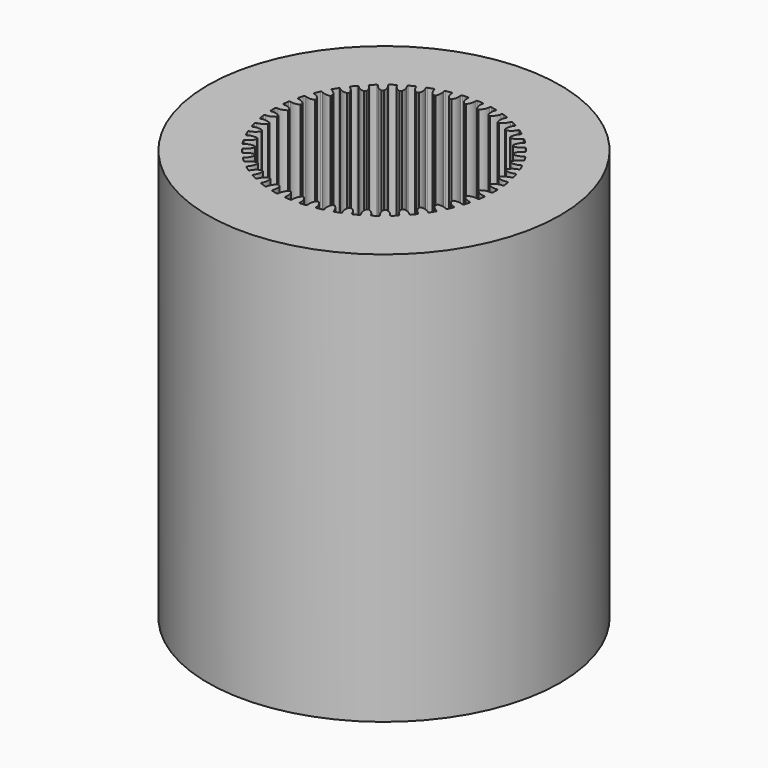
from build123d import *

# Parameters (mm, degrees)
F0_R     = 22.4917
F1_DEPTH = 52.5272


with BuildPart() as f1:
    # F0 (on Top) → F1 (new body)
    with BuildSketch(Plane.XY):
        Circle(F0_R)
        with BuildLine():
            ThreePointArc((-1.880988, 12.752524), (-1.755256, 12.770437), (-1.629354, 12.787111))
            ThreePointArc((-1.629354, 12.787111), (-1.400845, 13.35114), (-1.411246, 13.959611))
            ThreePointArc((-1.411246, 13.959611), (-1.38984, 14.061959), (-1.298894, 14.113556))
            ThreePointArc((-1.298894, 14.113556), (-1.133132, 14.127831), (-0.967213, 14.140159))
            Line((-0.967213, 14.140159), (-0.635, 14.158968))
            ThreePointArc((-0.635, 14.158968), (-0.537875, 14.120235), (-0.502732, 14.021755))
            ThreePointArc((-0.502732, 14.021755), (-0.430183, 13.417535), (-0.127, 12.889874))
            ThreePointArc((-0.127, 12.889874), (0, 12.8905), (0.127, 12.889874))
            ThreePointArc((0.127, 12.889874), (0.430183, 13.417535), (0.502732, 14.021755))
            ThreePointArc((0.502732, 14.021755), (0.537875, 14.120235), (0.635, 14.158968))
            ThreePointArc((0.635, 14.158968), (0.967213, 14.140159), (1.298894, 14.113556))
            ThreePointArc((1.298894, 14.113556), (1.38984, 14.061959), (1.411246, 13.959611))
            ThreePointArc((1.411246, 13.959611), (1.400845, 13.35114), (1.629354, 12.787111))
            ThreePointArc((1.629354, 12.787111), (1.755256, 12.770437), (1.880988, 12.752524))
            ThreePointArc((1.880988, 12.752524), (2.253197, 13.233987), (2.407345, 13.8227))
            ThreePointArc((2.407345, 13.8227), (2.45557, 13.915478), (2.557065, 13.940625))
            Line((2.557065, 13.940625), (3.208591, 13.805236))
            ThreePointArc((3.208591, 13.805236), (3.291665, 13.741736), (3.298935, 13.637426))
            ThreePointArc((3.298935, 13.637426), (3.205777, 13.036038), (3.355356, 12.446147))
            ThreePointArc((3.355356, 12.446147), (3.477815, 12.412485), (3.599937, 12.377619))
            ThreePointArc((3.599937, 12.377619), (4.034238, 12.803914), (4.267113, 13.366155))
            ThreePointArc((4.267113, 13.366155), (4.327523, 13.451502), (4.431496, 13.462594))
            ThreePointArc((4.431496, 13.462594), (4.746316, 13.354853), (5.058519, 13.23975))
            ThreePointArc((5.058519, 13.23975), (5.132172, 13.16553), (5.125171, 13.061201))
            ThreePointArc((5.125171, 13.061201), (4.950992, 12.4781), (5.018854, 11.873335))
            ThreePointArc((5.018854, 11.873335), (5.135589, 11.823312), (5.251826, 11.772142))
            ThreePointArc((5.251826, 11.772142), (5.740129, 12.135329), (6.047394, 12.660623))
            ThreePointArc((6.047394, 12.660623), (6.118862, 12.736949), (6.223377, 12.733781))
            ThreePointArc((6.223377, 12.733781), (6.520594, 12.584175), (6.814216, 12.427633))
            ThreePointArc((6.814216, 12.427633), (6.877077, 12.344074), (6.855935, 12.241671))
            ThreePointArc((6.855935, 12.241671), (6.603979, 11.687718), (6.588861, 11.079346))
            ThreePointArc((6.588861, 11.079346), (6.697697, 11.013893), (6.805883, 10.947372))
            ThreePointArc((6.805883, 10.947372), (7.339092, 11.240686), (7.715023, 11.719248))
            ThreePointArc((7.715023, 11.719248), (7.796219, 11.785132), (7.899329, 11.767761))
            ThreePointArc((7.899329, 11.767761), (8.173406, 11.579078), (8.442977, 11.384012))
            ThreePointArc((8.442977, 11.384012), (8.493875, 11.292673), (8.458986, 11.194102))
            ThreePointArc((8.458986, 11.194102), (8.133947, 10.679616), (8.036129, 10.078969))
            ThreePointArc((8.036129, 10.078969), (8.135039, 9.999306), (8.23316, 9.918673))
            ThreePointArc((8.23316, 9.918673), (8.801342, 10.13665), (9.238935, 10.559566))
            ThreePointArc((9.238935, 10.559566), (9.328346, 10.61378), (9.428131, 10.58253))
            ThreePointArc((9.428131, 10.58253), (9.673962, 10.358284), (9.914462, 10.128329))
            ThreePointArc((9.914462, 10.128329), (9.952448, 10.03091), (9.904462, 9.938007))
            ThreePointArc((9.904462, 9.938007), (9.512395, 9.472574), (9.3337, 8.89084))
            ThreePointArc((9.3337, 8.89084), (9.420841, 8.798451), (9.507068, 8.705208))
            ThreePointArc((9.507068, 8.705208), (10.09964, 8.843788), (10.590744, 9.203179))
            ThreePointArc((10.590744, 9.203179), (10.686704, 9.244713), (10.781304, 9.200167))
            ThreePointArc((10.781304, 9.200167), (10.994311, 8.944536), (11.201259, 8.683974))
            ThreePointArc((11.201259, 8.683974), (11.225625, 8.58229), (11.165436, 8.496787))
            ThreePointArc((11.165436, 8.496787), (10.713644, 8.089075), (10.457401, 7.537092))
            ThreePointArc((10.457401, 7.537092), (10.53115, 7.433698), (10.603878, 7.329582))
            ThreePointArc((10.603878, 7.329582), (11.2098, 7.386182), (11.745267, 7.675354))
            ThreePointArc((11.745267, 7.675354), (11.845989, 7.703434), (11.933643, 7.646422))
            ThreePointArc((11.933643, 7.646422), (12.109857, 7.364167), (12.279397, 7.077853))
            ThreePointArc((12.279397, 7.077853), (12.289691, 6.973798), (12.21842, 6.897287))
            ThreePointArc((12.21842, 6.897287), (11.715319, 6.554892), (11.386301, 6.042942))
            ThreePointArc((11.386301, 6.042942), (11.445284, 5.930468), (11.503157, 5.817419))
            ThreePointArc((11.503157, 5.817419), (12.111143, 5.790986), (12.680998, 6.004551))
            ThreePointArc((12.680998, 6.004551), (12.784606, 6.018655), (12.86368, 5.950239))
            ThreePointArc((12.86368, 5.950239), (12.999819, 5.646618), (13.128794, 5.339885))
            ThreePointArc((13.128794, 5.339885), (13.124823, 5.235398), (13.043797, 5.169304))
            ThreePointArc((13.043797, 5.169304), (12.498759, 4.898603), (12.103095, 4.436223))
            ThreePointArc((12.103095, 4.436223), (12.146214, 4.316766), (12.188155, 4.196889))
            ThreePointArc((12.188155, 4.196889), (12.786878, 4.087915), (13.380506, 4.221895))
            ThreePointArc((13.380506, 4.221895), (13.485069, 4.22176), (13.554091, 4.143214))
            ThreePointArc((13.554091, 4.143214), (13.647619, 3.823884), (13.733626, 3.502446))
            ThreePointArc((13.733626, 3.502446), (13.715464, 3.399472), (13.626193, 3.345027))
            ThreePointArc((13.626193, 3.345027), (13.049372, 3.151063), (12.594432, 2.746866))
            ThreePointArc((12.594432, 2.746866), (12.620883, 2.62265), (12.64611, 2.498179))
            ThreePointArc((12.64611, 2.498179), (13.224418, 2.308693), (13.830761, 2.360594))
            ThreePointArc((13.830761, 2.360594), (13.934332, 2.346222), (13.992015, 2.259009))
            ThreePointArc((13.992015, 2.259009), (14.04119, 1.929917), (14.082626, 1.599762))
            ThreePointArc((14.082626, 1.599762), (14.050612, 1.50022), (13.954759, 1.458438))
            ThreePointArc((13.954759, 1.458438), (13.356899, 1.344825), (12.851158, 1.00634))
            ThreePointArc((12.851158, 1.00634), (12.860449, 0.879679), (12.868492, 0.752932))
            ThreePointArc((12.868492, 0.752932), (13.415612, 0.486465), (14.023375, 0.455319))
            ThreePointArc((14.023375, 0.455319), (14.124024, 0.426978), (14.169294, 0.332722))
            ThreePointArc((14.169294, 0.332722), (14.1732, 0), (14.169294, -0.332722))
            ThreePointArc((14.169294, -0.332722), (14.124024, -0.426978), (14.023375, -0.455319))
            ThreePointArc((14.023375, -0.455319), (13.415612, -0.486465), (12.868492, -0.752932))
            ThreePointArc((12.868492, -0.752932), (12.860449, -0.879679), (12.851158, -1.00634))
            ThreePointArc((12.851158, -1.00634), (13.356899, -1.344825), (13.954759, -1.458438))
            ThreePointArc((13.954759, -1.458438), (14.050612, -1.50022), (14.082626, -1.599762))
            ThreePointArc((14.082626, -1.599762), (14.04119, -1.929917), (13.992015, -2.259009))
            ThreePointArc((13.992015, -2.259009), (13.934332, -2.346222), (13.830761, -2.360594))
            ThreePointArc((13.830761, -2.360594), (13.224418, -2.308693), (12.64611, -2.498179))
            Line((12.64611, -2.498179), (12.594432, -2.746866))
            ThreePointArc((12.594432, -2.746866), (13.049372, -3.151063), (13.626193, -3.345027))
            ThreePointArc((13.626193, -3.345027), (13.715464, -3.399472), (13.733626, -3.502446))
            ThreePointArc((13.733626, -3.502446), (13.647619, -3.823884), (13.554091, -4.143214))
            ThreePointArc((13.554091, -4.143214), (13.485069, -4.22176), (13.380506, -4.221895))
            ThreePointArc((13.380506, -4.221895), (12.786878, -4.087915), (12.188155, -4.196889))
            ThreePointArc((12.188155, -4.196889), (12.146214, -4.316766), (12.103095, -4.436223))
            ThreePointArc((12.103095, -4.436223), (12.498759, -4.898603), (13.043797, -5.169304))
            ThreePointArc((13.043797, -5.169304), (13.124823, -5.235398), (13.128794, -5.339885))
            ThreePointArc((13.128794, -5.339885), (12.999819, -5.646618), (12.86368, -5.950239))
            ThreePointArc((12.86368, -5.950239), (12.784606, -6.018655), (12.680998, -6.004551))
            ThreePointArc((12.680998, -6.004551), (12.111143, -5.790986), (11.503157, -5.817419))
            ThreePointArc((11.503157, -5.817419), (11.445284, -5.930468), (11.386301, -6.042942))
            ThreePointArc((11.386301, -6.042942), (11.715319, -6.554892), (12.21842, -6.897287))
            ThreePointArc((12.21842, -6.897287), (12.289691, -6.973798), (12.279397, -7.077853))
            ThreePointArc((12.279397, -7.077853), (12.109857, -7.364167), (11.933643, -7.646422))
            ThreePointArc((11.933643, -7.646422), (11.845989, -7.703434), (11.745267, -7.675354))
            ThreePointArc((11.745267, -7.675354), (11.2098, -7.386182), (10.603878, -7.329582))
            ThreePointArc((10.603878, -7.329582), (10.53115, -7.433698), (10.457401, -7.537092))
            ThreePointArc((10.457401, -7.537092), (10.713644, -8.089075), (11.165436, -8.496787))
            ThreePointArc((11.165436, -8.496787), (11.225625, -8.58229), (11.201259, -8.683974))
            ThreePointArc((11.201259, -8.683974), (10.994311, -8.944536), (10.781304, -9.200167))
            ThreePointArc((10.781304, -9.200167), (10.686704, -9.244713), (10.590744, -9.203179))
            ThreePointArc((10.590744, -9.203179), (10.09964, -8.843788), (9.507068, -8.705208))
            ThreePointArc((9.507068, -8.705208), (9.420841, -8.798451), (9.3337, -8.89084))
            ThreePointArc((9.3337, -8.89084), (9.512395, -9.472574), (9.904462, -9.938007))
            ThreePointArc((9.904462, -9.938007), (9.952448, -10.03091), (9.914462, -10.128329))
            ThreePointArc((9.914462, -10.128329), (9.673962, -10.358284), (9.428131, -10.58253))
            ThreePointArc((9.428131, -10.58253), (9.328346, -10.61378), (9.238935, -10.559566))
            ThreePointArc((9.238935, -10.559566), (8.801342, -10.13665), (8.23316, -9.918673))
            ThreePointArc((8.23316, -9.918673), (8.135039, -9.999306), (8.036129, -10.078969))
            ThreePointArc((8.036129, -10.078969), (8.133947, -10.679616), (8.458986, -11.194102))
            ThreePointArc((8.458986, -11.194102), (8.493875, -11.292673), (8.442977, -11.384012))
            ThreePointArc((8.442977, -11.384012), (8.173406, -11.579078), (7.899329, -11.767761))
            ThreePointArc((7.899329, -11.767761), (7.796219, -11.785132), (7.715023, -11.719248))
            ThreePointArc((7.715023, -11.719248), (7.339092, -11.240686), (6.805883, -10.947372))
            ThreePointArc((6.805883, -10.947372), (6.697697, -11.013893), (6.588861, -11.079346))
            ThreePointArc((6.588861, -11.079346), (6.603979, -11.687718), (6.855935, -12.241671))
            ThreePointArc((6.855935, -12.241671), (6.877077, -12.344074), (6.814216, -12.427633))
            ThreePointArc((6.814216, -12.427633), (6.520594, -12.584175), (6.223377, -12.733781))
            ThreePointArc((6.223377, -12.733781), (6.118862, -12.736949), (6.047394, -12.660623))
            ThreePointArc((6.047394, -12.660623), (5.740129, -12.135329), (5.251826, -11.772142))
            ThreePointArc((5.251826, -11.772142), (5.135589, -11.823312), (5.018854, -11.873335))
            ThreePointArc((5.018854, -11.873335), (4.950992, -12.4781), (5.125171, -13.061201))
            ThreePointArc((5.125171, -13.061201), (5.132172, -13.16553), (5.058519, -13.23975))
            ThreePointArc((5.058519, -13.23975), (4.746316, -13.354853), (4.431496, -13.462594))
            ThreePointArc((4.431496, -13.462594), (4.327523, -13.451502), (4.267113, -13.366155))
            ThreePointArc((4.267113, -13.366155), (4.034238, -12.803914), (3.599937, -12.377619))
            ThreePointArc((3.599937, -12.377619), (3.477815, -12.412485), (3.355356, -12.446147))
            ThreePointArc((3.355356, -12.446147), (3.205777, -13.036038), (3.298935, -13.637426))
            ThreePointArc((3.298935, -13.637426), (3.291665, -13.741736), (3.208591, -13.805236))
            ThreePointArc((3.208591, -13.805236), (2.883623, -13.876755), (2.557065, -13.940625))
            ThreePointArc((2.557065, -13.940625), (2.45557, -13.915478), (2.407345, -13.8227))
            ThreePointArc((2.407345, -13.8227), (2.253197, -13.233987), (1.880988, -12.752524))
            ThreePointArc((1.880988, -12.752524), (1.755256, -12.770437), (1.629354, -12.787111))
            ThreePointArc((1.629354, -12.787111), (1.400845, -13.35114), (1.411246, -13.959611))
            ThreePointArc((1.411246, -13.959611), (1.38984, -14.061959), (1.298894, -14.113556))
            ThreePointArc((1.298894, -14.113556), (0.967213, -14.140159), (0.635, -14.158968))
            ThreePointArc((0.635, -14.158968), (0.537875, -14.120235), (0.502732, -14.021755))
            ThreePointArc((0.502732, -14.021755), (0.430183, -13.417535), (0.127, -12.889874))
            ThreePointArc((0.127, -12.889874), (0, -12.8905), (-0.127, -12.889874))
            ThreePointArc((-0.127, -12.889874), (-0.430183, -13.417535), (-0.502732, -14.021755))
            ThreePointArc((-0.502732, -14.021755), (-0.537875, -14.120235), (-0.635, -14.158968))
            ThreePointArc((-0.635, -14.158968), (-0.967213, -14.140159), (-1.298894, -14.113556))
            ThreePointArc((-1.298894, -14.113556), (-1.38984, -14.061959), (-1.411246, -13.959611))
            ThreePointArc((-1.411246, -13.959611), (-1.400845, -13.35114), (-1.629354, -12.787111))
            ThreePointArc((-1.629354, -12.787111), (-1.755256, -12.770437), (-1.880988, -12.752524))
            ThreePointArc((-1.880988, -12.752524), (-2.253197, -13.233987), (-2.407345, -13.8227))
            ThreePointArc((-2.407345, -13.8227), (-2.45557, -13.915478), (-2.557065, -13.940625))
            ThreePointArc((-2.557065, -13.940625), (-2.883623, -13.876755), (-3.208591, -13.805236))
            ThreePointArc((-3.208591, -13.805236), (-3.291665, -13.741736), (-3.298935, -13.637426))
            ThreePointArc((-3.298935, -13.637426), (-3.205777, -13.036038), (-3.355356, -12.446147))
            ThreePointArc((-3.355356, -12.446147), (-3.477815, -12.412485), (-3.599937, -12.377619))
            ThreePointArc((-3.599937, -12.377619), (-4.034238, -12.803914), (-4.267113, -13.366155))
            ThreePointArc((-4.267113, -13.366155), (-4.327523, -13.451502), (-4.431496, -13.462594))
            ThreePointArc((-4.431496, -13.462594), (-4.746316, -13.354853), (-5.058519, -13.23975))
            ThreePointArc((-5.058519, -13.23975), (-5.132172, -13.16553), (-5.125171, -13.061201))
            ThreePointArc((-5.125171, -13.061201), (-4.950992, -12.4781), (-5.018854, -11.873335))
            ThreePointArc((-5.018854, -11.873335), (-5.135589, -11.823312), (-5.251826, -11.772142))
            ThreePointArc((-5.251826, -11.772142), (-5.740129, -12.135329), (-6.047394, -12.660623))
            ThreePointArc((-6.047394, -12.660623), (-6.118862, -12.736949), (-6.223377, -12.733781))
            ThreePointArc((-6.223377, -12.733781), (-6.520594, -12.584175), (-6.814216, -12.427633))
            ThreePointArc((-6.814216, -12.427633), (-6.877077, -12.344074), (-6.855935, -12.241671))
            ThreePointArc((-6.855935, -12.241671), (-6.603979, -11.687718), (-6.588861, -11.079346))
            ThreePointArc((-6.588861, -11.079346), (-6.697697, -11.013893), (-6.805883, -10.947372))
            ThreePointArc((-6.805883, -10.947372), (-7.339092, -11.240686), (-7.715023, -11.719248))
            ThreePointArc((-7.715023, -11.719248), (-7.796219, -11.785132), (-7.899329, -11.767761))
            ThreePointArc((-7.899329, -11.767761), (-8.173406, -11.579078), (-8.442977, -11.384012))
            ThreePointArc((-8.442977, -11.384012), (-8.493875, -11.292673), (-8.458986, -11.194102))
            ThreePointArc((-8.458986, -11.194102), (-8.133947, -10.679616), (-8.036129, -10.078969))
            ThreePointArc((-8.036129, -10.078969), (-8.135039, -9.999306), (-8.23316, -9.918673))
            ThreePointArc((-8.23316, -9.918673), (-8.801342, -10.13665), (-9.238935, -10.559566))
            ThreePointArc((-9.238935, -10.559566), (-9.328346, -10.61378), (-9.428131, -10.58253))
            ThreePointArc((-9.428131, -10.58253), (-9.673962, -10.358284), (-9.914462, -10.128329))
            ThreePointArc((-9.914462, -10.128329), (-9.952448, -10.03091), (-9.904462, -9.938007))
            ThreePointArc((-9.904462, -9.938007), (-9.512395, -9.472574), (-9.3337, -8.89084))
            ThreePointArc((-9.3337, -8.89084), (-9.420841, -8.798451), (-9.507068, -8.705208))
            ThreePointArc((-9.507068, -8.705208), (-10.09964, -8.843788), (-10.590744, -9.203179))
            ThreePointArc((-10.590744, -9.203179), (-10.686704, -9.244713), (-10.781304, -9.200167))
            ThreePointArc((-10.781304, -9.200167), (-10.994311, -8.944536), (-11.201259, -8.683974))
            ThreePointArc((-11.201259, -8.683974), (-11.225625, -8.58229), (-11.165436, -8.496787))
            ThreePointArc((-11.165436, -8.496787), (-10.713644, -8.089075), (-10.457401, -7.537092))
            ThreePointArc((-10.457401, -7.537092), (-10.53115, -7.433698), (-10.603878, -7.329582))
            ThreePointArc((-10.603878, -7.329582), (-11.2098, -7.386182), (-11.745267, -7.675354))
            ThreePointArc((-11.745267, -7.675354), (-11.845989, -7.703434), (-11.933643, -7.646422))
            ThreePointArc((-11.933643, -7.646422), (-12.109857, -7.364167), (-12.279397, -7.077853))
            ThreePointArc((-12.279397, -7.077853), (-12.289691, -6.973798), (-12.21842, -6.897287))
            ThreePointArc((-12.21842, -6.897287), (-11.715319, -6.554892), (-11.386301, -6.042942))
            Line((-11.386301, -6.042942), (-11.503157, -5.817419))
            ThreePointArc((-11.503157, -5.817419), (-12.111143, -5.790986), (-12.680998, -6.004551))
            ThreePointArc((-12.680998, -6.004551), (-12.784606, -6.018655), (-12.86368, -5.950239))
            ThreePointArc((-12.86368, -5.950239), (-12.999819, -5.646618), (-13.128794, -5.339885))
            ThreePointArc((-13.128794, -5.339885), (-13.124823, -5.235398), (-13.043797, -5.169304))
            ThreePointArc((-13.043797, -5.169304), (-12.498759, -4.898603), (-12.103095, -4.436223))
            ThreePointArc((-12.103095, -4.436223), (-12.146214, -4.316766), (-12.188155, -4.196889))
            ThreePointArc((-12.188155, -4.196889), (-12.786878, -4.087915), (-13.380506, -4.221895))
            ThreePointArc((-13.380506, -4.221895), (-13.485069, -4.22176), (-13.554091, -4.143214))
            ThreePointArc((-13.554091, -4.143214), (-13.647619, -3.823884), (-13.733626, -3.502446))
            ThreePointArc((-13.733626, -3.502446), (-13.715464, -3.399472), (-13.626193, -3.345027))
            ThreePointArc((-13.626193, -3.345027), (-13.049372, -3.151063), (-12.594432, -2.746866))
            ThreePointArc((-12.594432, -2.746866), (-12.620883, -2.62265), (-12.64611, -2.498179))
            ThreePointArc((-12.64611, -2.498179), (-13.224418, -2.308693), (-13.830761, -2.360594))
            ThreePointArc((-13.830761, -2.360594), (-13.934332, -2.346222), (-13.992015, -2.259009))
            ThreePointArc((-13.992015, -2.259009), (-14.04119, -1.929917), (-14.082626, -1.599762))
            ThreePointArc((-14.082626, -1.599762), (-14.050612, -1.50022), (-13.954759, -1.458438))
            ThreePointArc((-13.954759, -1.458438), (-13.356899, -1.344825), (-12.851158, -1.00634))
            ThreePointArc((-12.851158, -1.00634), (-12.860449, -0.879679), (-12.868492, -0.752932))
            ThreePointArc((-12.868492, -0.752932), (-13.415612, -0.486465), (-14.023375, -0.455319))
            ThreePointArc((-14.023375, -0.455319), (-14.124024, -0.426978), (-14.169294, -0.332722))
            ThreePointArc((-14.169294, -0.332722), (-14.1732, 0), (-14.169294, 0.332722))
            ThreePointArc((-14.169294, 0.332722), (-14.124024, 0.426978), (-14.023375, 0.455319))
            ThreePointArc((-14.023375, 0.455319), (-13.415612, 0.486465), (-12.868492, 0.752932))
            ThreePointArc((-12.868492, 0.752932), (-12.860449, 0.879679), (-12.851158, 1.00634))
            ThreePointArc((-12.851158, 1.00634), (-13.356899, 1.344825), (-13.954759, 1.458438))
            ThreePointArc((-13.954759, 1.458438), (-14.050612, 1.50022), (-14.082626, 1.599762))
            ThreePointArc((-14.082626, 1.599762), (-14.04119, 1.929917), (-13.992015, 2.259009))
            ThreePointArc((-13.992015, 2.259009), (-13.934332, 2.346222), (-13.830761, 2.360594))
            ThreePointArc((-13.830761, 2.360594), (-13.224418, 2.308693), (-12.64611, 2.498179))
            ThreePointArc((-12.64611, 2.498179), (-12.620883, 2.62265), (-12.594432, 2.746866))
            ThreePointArc((-12.594432, 2.746866), (-13.049372, 3.151063), (-13.626193, 3.345027))
            ThreePointArc((-13.626193, 3.345027), (-13.715464, 3.399472), (-13.733626, 3.502446))
            ThreePointArc((-13.733626, 3.502446), (-13.647619, 3.823884), (-13.554091, 4.143214))
            ThreePointArc((-13.554091, 4.143214), (-13.485069, 4.22176), (-13.380506, 4.221895))
            ThreePointArc((-13.380506, 4.221895), (-12.786878, 4.087915), (-12.188155, 4.196889))
            ThreePointArc((-12.188155, 4.196889), (-12.146214, 4.316766), (-12.103095, 4.436223))
            ThreePointArc((-12.103095, 4.436223), (-12.498759, 4.898603), (-13.043797, 5.169304))
            ThreePointArc((-13.043797, 5.169304), (-13.124823, 5.235398), (-13.128794, 5.339885))
            ThreePointArc((-13.128794, 5.339885), (-12.999819, 5.646618), (-12.86368, 5.950239))
            ThreePointArc((-12.86368, 5.950239), (-12.784606, 6.018655), (-12.680998, 6.004551))
            ThreePointArc((-12.680998, 6.004551), (-12.111143, 5.790986), (-11.503157, 5.817419))
            Line((-11.503157, 5.817419), (-11.386301, 6.042942))
            ThreePointArc((-11.386301, 6.042942), (-11.715319, 6.554892), (-12.21842, 6.897287))
            ThreePointArc((-12.21842, 6.897287), (-12.289691, 6.973798), (-12.279397, 7.077853))
            ThreePointArc((-12.279397, 7.077853), (-12.109857, 7.364167), (-11.933643, 7.646422))
            ThreePointArc((-11.933643, 7.646422), (-11.845989, 7.703434), (-11.745267, 7.675354))
            ThreePointArc((-11.745267, 7.675354), (-11.2098, 7.386182), (-10.603878, 7.329582))
            ThreePointArc((-10.603878, 7.329582), (-10.53115, 7.433698), (-10.457401, 7.537092))
            ThreePointArc((-10.457401, 7.537092), (-10.713644, 8.089075), (-11.165436, 8.496787))
            ThreePointArc((-11.165436, 8.496787), (-11.225625, 8.58229), (-11.201259, 8.683974))
            ThreePointArc((-11.201259, 8.683974), (-10.994311, 8.944536), (-10.781304, 9.200167))
            ThreePointArc((-10.781304, 9.200167), (-10.686704, 9.244713), (-10.590744, 9.203179))
            ThreePointArc((-10.590744, 9.203179), (-10.09964, 8.843788), (-9.507068, 8.705208))
            ThreePointArc((-9.507068, 8.705208), (-9.420841, 8.798451), (-9.3337, 8.89084))
            ThreePointArc((-9.3337, 8.89084), (-9.512395, 9.472574), (-9.904462, 9.938007))
            ThreePointArc((-9.904462, 9.938007), (-9.952448, 10.03091), (-9.914462, 10.128329))
            ThreePointArc((-9.914462, 10.128329), (-9.673962, 10.358284), (-9.428131, 10.58253))
            ThreePointArc((-9.428131, 10.58253), (-9.328346, 10.61378), (-9.238935, 10.559566))
            ThreePointArc((-9.238935, 10.559566), (-8.801342, 10.13665), (-8.23316, 9.918673))
            ThreePointArc((-8.23316, 9.918673), (-8.135039, 9.999306), (-8.036129, 10.078969))
            ThreePointArc((-8.036129, 10.078969), (-8.133947, 10.679616), (-8.458986, 11.194102))
            ThreePointArc((-8.458986, 11.194102), (-8.493875, 11.292673), (-8.442977, 11.384012))
            ThreePointArc((-8.442977, 11.384012), (-8.173406, 11.579078), (-7.899329, 11.767761))
            ThreePointArc((-7.899329, 11.767761), (-7.796219, 11.785132), (-7.715023, 11.719248))
            ThreePointArc((-7.715023, 11.719248), (-7.339092, 11.240686), (-6.805883, 10.947372))
            ThreePointArc((-6.805883, 10.947372), (-6.697697, 11.013893), (-6.588861, 11.079346))
            ThreePointArc((-6.588861, 11.079346), (-6.603979, 11.687718), (-6.855935, 12.241671))
            ThreePointArc((-6.855935, 12.241671), (-6.877077, 12.344074), (-6.814216, 12.427633))
            ThreePointArc((-6.814216, 12.427633), (-6.520594, 12.584175), (-6.223377, 12.733781))
            ThreePointArc((-6.223377, 12.733781), (-6.118862, 12.736949), (-6.047394, 12.660623))
            ThreePointArc((-6.047394, 12.660623), (-5.740129, 12.135329), (-5.251826, 11.772142))
            ThreePointArc((-5.251826, 11.772142), (-5.135589, 11.823312), (-5.018854, 11.873335))
            ThreePointArc((-5.018854, 11.873335), (-4.950992, 12.4781), (-5.125171, 13.061201))
            ThreePointArc((-5.125171, 13.061201), (-5.132172, 13.16553), (-5.058519, 13.23975))
            ThreePointArc((-5.058519, 13.23975), (-4.746316, 13.354853), (-4.431496, 13.462594))
            ThreePointArc((-4.431496, 13.462594), (-4.327523, 13.451502), (-4.267113, 13.366155))
            ThreePointArc((-4.267113, 13.366155), (-4.034238, 12.803914), (-3.599937, 12.377619))
            ThreePointArc((-3.599937, 12.377619), (-3.477815, 12.412485), (-3.355356, 12.446147))
            ThreePointArc((-3.355356, 12.446147), (-3.205777, 13.036038), (-3.298935, 13.637426))
            ThreePointArc((-3.298935, 13.637426), (-3.291665, 13.741736), (-3.208591, 13.805236))
            ThreePointArc((-3.208591, 13.805236), (-2.883623, 13.876755), (-2.557065, 13.940625))
            ThreePointArc((-2.557065, 13.940625), (-2.45557, 13.915478), (-2.407345, 13.8227))
            ThreePointArc((-2.407345, 13.8227), (-2.253197, 13.233987), (-1.880988, 12.752524))
        make_face(mode=Mode.SUBTRACT)
    extrude(amount=F1_DEPTH)


solid = f1.part
